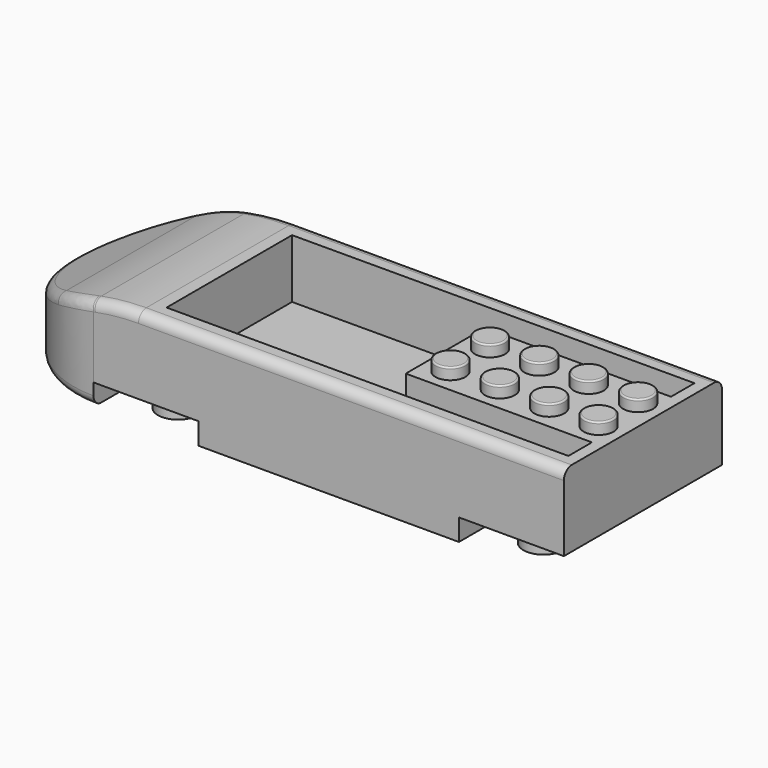
from build123d import *

# Parameters (mm, degrees)
F1_DEPTH  = 19.05
F2_W      = 17.00022
F2_H      = 32.004
F2_R      = 3.2512
F2_R_2    = 2.4003
F3_DEPTH  = 3.5052
F5_DEPTH  = 32.005
F6_R      = 1.5875
F7_R      = 2.42443
F8_DEPTH  = 1.8542
F9_R      = 0.254
F11_DEPTH = 9.525


with BuildPart() as f1:
    # F0 (on Top) → F1 (new body)
    with BuildSketch(Plane.XY):
        with BuildLine():
            Line((38.1, 16.002), (-38.1, 16.002))
            ThreePointArc((-38.1, 16.002), (-54.102, 0), (-38.1, -16.002))
            Line((-38.1, -16.002), (38.1, -16.002))
            Line((38.1, -16.002), (38.1, 16.002))
        make_face()
    extrude(amount=F1_DEPTH)

    # F2 (on face) → F3 (cut)
    with BuildSketch(Plane(origin=(0, 0, 0), x_dir=(1, 0, 0), z_dir=(0, 0, -1))):
        with Locations((-29.59989, 0)):
            Rectangle(F2_W, F2_H)
        with Locations((-29.6037, -9.4996)):
            Circle(F2_R, mode=Mode.SUBTRACT)
        with Locations((-29.6037, 0)):
            Circle(F2_R, mode=Mode.SUBTRACT)
        with Locations((-29.6037, 9.4996)):
            Circle(F2_R, mode=Mode.SUBTRACT)
        with Locations((29.59989, 0)):
            Rectangle(F2_W, F2_H)
        with Locations((29.6037, -9.4996)):
            Circle(F2_R, mode=Mode.SUBTRACT)
        with Locations((29.6037, 0)):
            Circle(F2_R, mode=Mode.SUBTRACT)
        with Locations((29.6037, 9.4996)):
            Circle(F2_R, mode=Mode.SUBTRACT)
        with Locations((-29.6037, 9.4996)):
            Circle(F2_R_2)
        with Locations((-29.6037, 0)):
            Circle(F2_R_2)
        with Locations((-29.6037, -9.4996)):
            Circle(F2_R_2)
        with Locations((29.6037, 9.4996)):
            Circle(F2_R_2)
        with Locations((29.6037, 0)):
            Circle(F2_R_2)
        with Locations((29.6037, -9.4996)):
            Circle(F2_R_2)
    extrude(amount=-F3_DEPTH, mode=Mode.SUBTRACT)

    # F4 (on face) → F5 (cut, through all)
    with BuildSketch(Plane.XZ.offset(16.002)):
        with BuildLine():
            Line((-38.1, 19.05), (-38.1, 15.172378))
            ThreePointArc((-38.1, 15.172378), (-34.475268, 15.698938), (-30.816724, 15.875))
            Line((-30.816724, 15.875), (38.1, 15.875))
            Line((38.1, 15.875), (38.1, 19.05))
            Line((38.1, 19.05), (-38.1, 19.05))
        make_face()
        with BuildLine():
            Line((-54.102, 19.05), (-54.102, 9.525))
            Line((-54.102, 9.525), (-44.869738, 13.188596))
            ThreePointArc((-44.869738, 13.188596), (-41.530881, 14.337506), (-38.1, 15.172378))
            Line((-38.1, 15.172378), (-38.1, 19.05))
            Line((-38.1, 19.05), (-54.102, 19.05))
        make_face()
    extrude(amount=-F5_DEPTH, mode=Mode.SUBTRACT)

    # F6
    f6_edges = [f1.edges().sort_by_distance(p)[0] for p in [
        (-51.513173, -8.726443, 10.552312),
        (-51.513173, 8.726443, 10.552312),
        (-54.102, 0, 0),
    ]]
    fillet(f6_edges, radius=F6_R)

    # F7 (on face) → F8 (join)
    with BuildSketch(Plane.XY.offset(15.875)):
        with Locations((10.12317, 4.0005)):
            Circle(F7_R)
        with Locations((18.12417, 4.0005)):
            Circle(F7_R)
        with Locations((26.12517, 4.0005)):
            Circle(F7_R)
        with Locations((34.12617, 4.0005)):
            Circle(F7_R)
        with Locations((34.12617, -4.0005)):
            Circle(F7_R)
        with Locations((26.12517, -4.0005)):
            Circle(F7_R)
        with Locations((18.12417, -4.0005)):
            Circle(F7_R)
        with Locations((10.12317, -4.0005)):
            Circle(F7_R)
    extrude(amount=F8_DEPTH)

    # F9
    f9_edges = [f1.edges().sort_by_distance(p)[0] for p in [
        (7.69874, -4.0005, 17.7292),
        (7.69874, 4.0005, 17.7292),
        (15.69974, 4.0005, 17.7292),
        (15.69974, -4.0005, 17.7292),
        (23.70074, 4.0005, 17.7292),
        (23.70074, -4.0005, 17.7292),
        (31.70174, -4.0005, 17.7292),
        (31.70174, 4.0005, 17.7292),
    ]]
    fillet(f9_edges, radius=F9_R)

    # F10 (on face) → F11 (cut)
    with BuildSketch(Plane.XY.offset(15.875)):
        Polygon((36.233763, 8.015299), (36.233763, 12.777799), (-28.853587, 12.638099), (-28.853587, -12.761901), (36.233763, -12.761901), (36.233763, -7.986701), (6.071413, -7.986701), (6.071413, 8.015299), align=None)
    extrude(amount=-F11_DEPTH, mode=Mode.SUBTRACT)


solid = f1.part
